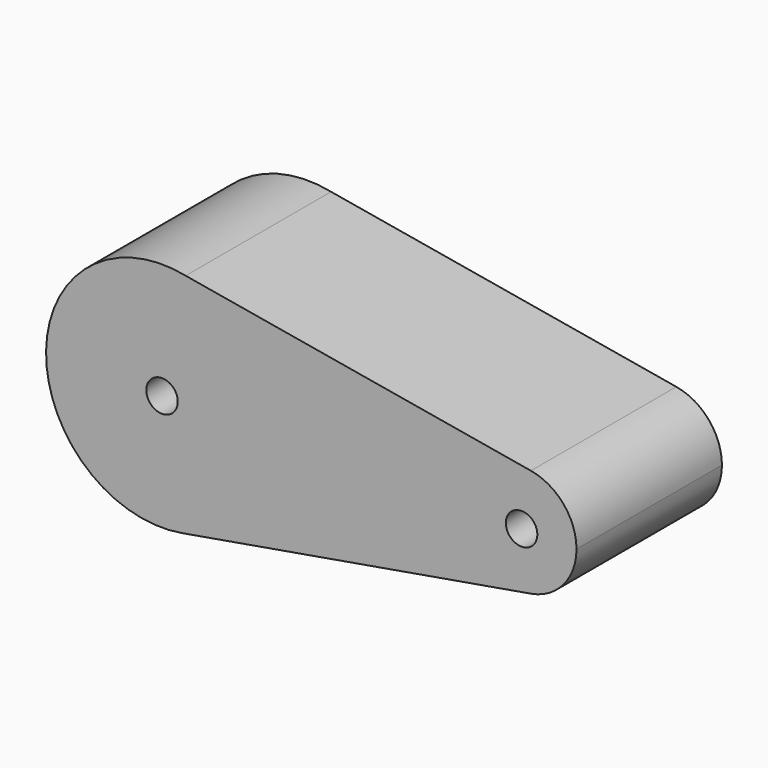
from build123d import *

# Parameters (mm, degrees)
F1_DEPTH = 25.4
F2_D     = 4.4


with BuildPart() as f1:
    # F0 (on Front) → F1 (new body)
    with BuildSketch(Plane.XZ):
        with BuildLine():
            ThreePointArc((-47.484933, -15.968208), (-37.844273, -10.439528), (-34.033119, 0))
            ThreePointArc((-34.033119, 0), (-37.666382, 10.224631), (-46.936825, 15.864007))
            ThreePointArc((-46.936825, 15.864007), (-66.437868, 0.278962), (-47.484933, -15.968208))
        make_face()
        with BuildLine():
            ThreePointArc((-46.936825, 15.864007), (-37.666382, 10.224631), (-34.033119, 0))
            ThreePointArc((-34.033119, 0), (-37.844273, -10.439528), (-47.484933, -15.968208))
            Line((-47.484933, -15.968208), (1.30292, -7.560718))
            ThreePointArc((1.30292, -7.560718), (-7.672161, -0.000753), (1.301436, 7.560974))
            Line((1.301436, 7.560974), (-46.936825, 15.864007))
        make_face()
        with BuildLine():
            ThreePointArc((7.672161, 0), (5.867149, 4.943543), (1.301436, 7.560974))
            ThreePointArc((1.301436, 7.560974), (-7.672161, -0.000753), (1.30292, -7.560718))
            ThreePointArc((1.30292, -7.560718), (5.867634, -4.942967), (7.672161, 0))
        make_face()
        with BuildLine():
            ThreePointArc((7.672161, 0), (5.867149, 4.943543), (1.301436, 7.560974))
            ThreePointArc((1.301436, 7.560974), (-7.672161, -0.000753), (1.30292, -7.560718))
            ThreePointArc((1.30292, -7.560718), (5.867634, -4.942967), (7.672161, 0))
        make_face()
    extrude(amount=F1_DEPTH)

    # F2 (through all)
    with Locations(Plane(origin=(0, 0, 0), x_dir=(1, 0, 0), z_dir=(0, 1, 0))):
        with Locations((-50.236695, 0), (0, 0)):
            Hole(F2_D / 2)


solid = f1.part
